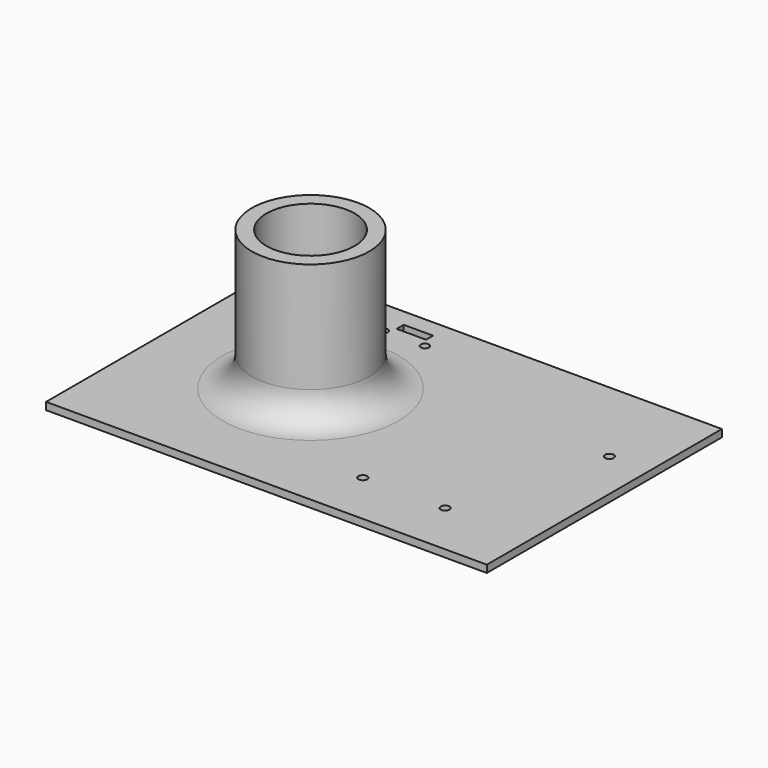
from build123d import *

# Parameters (mm, degrees)
SKETCH020_W     = 150
SKETCH020_H     = 100
PAD009_DEPTH    = 2.5
SKETCH005_W     = 140
SKETCH005_H     = 90
PAD010_DEPTH    = 2.5
SKETCH021_R     = 20
PAD002_DEPTH    = 50
SKETCH019_R     = 15
POCKET010_DEPTH = 50
SKETCH003_W     = 55
SKETCH003_H     = 70
POCKET001_DEPTH = 3
SKETCH004_R     = 1.5
POCKET002_DEPTH = 2.5
SKETCH006_W     = 28
SKETCH006_H     = 20
POCKET003_DEPTH = 2
SKETCH007_R     = 1.4
SKETCH007_W     = 10
SKETCH007_H     = 3
POCKET004_DEPTH = 50
FILLET_R        = 10


with BuildPart() as part:
    # Sketch020 → Pad009 (new body)
    with BuildSketch(Plane.XY):
        with Locations((75, 50)):
            Rectangle(SKETCH020_W, SKETCH020_H)
    extrude(amount=PAD009_DEPTH)

    # Sketch005 → Pad010 (join)
    with BuildSketch(Plane.XY):
        with Locations((75, 50)):
            Rectangle(SKETCH005_W, SKETCH005_H)
    extrude(amount=-PAD010_DEPTH)

    # Sketch021 → Pad002 (join)
    with BuildSketch(Plane.XY):
        with Locations((50, 50)):
            Circle(SKETCH021_R)
    extrude(amount=PAD002_DEPTH)

    # Sketch019 → Pocket010 (cut, symmetric)
    with BuildSketch(Plane.XY):
        with Locations((50, 50)):
            Circle(SKETCH019_R)
    extrude(amount=POCKET010_DEPTH, both=True, mode=Mode.SUBTRACT)

    # Sketch003 → Pocket001 (cut)
    with BuildSketch(Plane.XY):
        with Locations((112.5, 50)):
            Rectangle(SKETCH003_W, SKETCH003_H)
    extrude(amount=-POCKET001_DEPTH, mode=Mode.SUBTRACT)

    # Sketch004 → Pocket002 (cut, symmetric)
    with BuildSketch(Plane.XY):
        with Locations((121, 18.5)):
            Circle(SKETCH004_R)
        with Locations((136.5, 69)):
            Circle(SKETCH004_R)
        with Locations((93, 18.5)):
            Circle(SKETCH004_R)
    extrude(amount=POCKET002_DEPTH, both=True, mode=Mode.SUBTRACT)

    # Sketch006 → Pocket003 (cut)
    with BuildSketch(Plane.XY.offset(-2.5)):
        with Locations((52, 80)):
            Rectangle(SKETCH006_W, SKETCH006_H)
    extrude(amount=POCKET003_DEPTH, mode=Mode.SUBTRACT)

    # Sketch007 → Pocket004 (cut, symmetric)
    with BuildSketch(Plane.XY.offset(5.5)):
        with Locations((44.5, 88)):
            Circle(SKETCH007_R)
        with Locations((58.5, 88)):
            Circle(SKETCH007_R)
        with Locations((51.5, 92.5)):
            Rectangle(SKETCH007_W, SKETCH007_H)
    extrude(amount=POCKET004_DEPTH, both=True, mode=Mode.SUBTRACT)

    # Fillet
    fillet_edges = [part.edges().sort_by_distance(p)[0] for p in [
        (30, 50, 2.5),
    ]]
    fillet(fillet_edges, radius=FILLET_R)


solid = part.part
